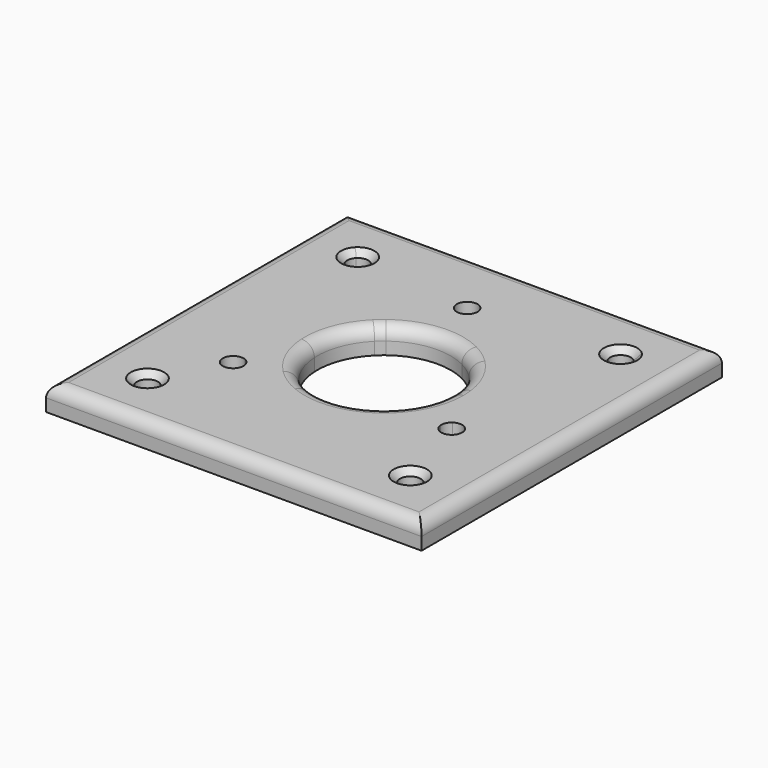
from build123d import *

# Parameters (mm, degrees)
F0_W     = 90
F0_H     = 90
F1_DEPTH = 6
F2_DEPTH = 3
F3_R     = 3
F4_SIZE  = 1.5


with BuildPart() as f1:
    # F0 (on Top) → F1 (new body)
    with BuildSketch(Plane.XY):
        with Locations((45, 57.9624775852)):
            Rectangle(F0_W, F0_H)
        with BuildLine():
            ThreePointArc((16, 26.4624775852), (14.4567085809, 24.152778754), (11.732233047, 24.6947106323))
            ThreePointArc((11.732233047, 24.6947106323), (12.5432914191, 28.7721764165), (16, 26.4624775852))
        make_face(mode=Mode.SUBTRACT)
        with BuildLine():
            ThreePointArc((79, 26.4624775852), (78.8096988313, 25.5057690043), (78.267766953, 24.6947106323))
            ThreePointArc((78.267766953, 24.6947106323), (74.1903011687, 27.4191861662), (79, 26.4624775852))
        make_face(mode=Mode.SUBTRACT)
        with BuildLine():
            ThreePointArc((16, 89.4624775852), (12.5432914191, 87.152778754), (11.732233047, 91.2302445382))
            ThreePointArc((11.732233047, 91.2302445382), (14.4567085809, 91.7721764165), (16, 89.4624775852))
        make_face(mode=Mode.SUBTRACT)
        with BuildLine():
            Line((65.762042471, 45.6721763201), (53.7451824967, 44.5639036649))
            ThreePointArc((53.7451824967, 44.5639036649), (46.4693877551, 42.0300923393), (38.8528937147, 43.190440342))
            Line((38.8528937147, 43.190440342), (26.8360337403, 42.0821676867))
            Line((26.8360337403, 42.0821676867), (27.0987256205, 41.6271720034))
            Line((27.0987256205, 41.6271720034), (24.9595724614, 37.9220500467))
            Line((24.9595724614, 37.9220500467), (24.5006494092, 37.1271720034))
            Line((24.5006494092, 37.1271720034), (19.3044969865, 37.1271720034))
            Line((19.3044969865, 37.1271720034), (16.7064207751, 41.6271720034))
            Line((16.7064207751, 41.6271720034), (19.3044969865, 46.1271720034))
            Line((19.3044969865, 46.1271720034), (23.9752656487, 46.1271720034))
            Line((23.9752656487, 46.1271720034), (29.0239033621, 57.0882143426))
            ThreePointArc((29.0239033621, 57.0882143426), (30.0561039252, 63.6791173416), (33.686291501, 69.2761860842))
            ThreePointArc((33.686291501, 69.2761860842), (34.4603089777, 70.0005386067), (35.2805936243, 70.6720464098))
            Line((35.2805936243, 70.6720464098), (40.3292313377, 81.6330887489))
            Line((40.3292313377, 81.6330887489), (39.8038475773, 81.6330887489))
            Line((39.8038475773, 81.6330887489), (37.2057713659, 86.1330887489))
            Line((37.2057713659, 86.1330887489), (39.8038475773, 90.6330887489))
            Line((39.8038475773, 90.6330887489), (45, 90.6330887489))
            Line((45, 90.6330887489), (47.5980762114, 86.1330887489))
            Line((47.5980762114, 86.1330887489), (45.2626918802, 82.0880844322))
            Line((45.2626918802, 82.0880844322), (52.2309141412, 72.2353147483))
            ThreePointArc((52.2309141412, 72.2353147483), (54.3896148925, 70.9175975064), (56.313708499, 69.2761860842))
            ThreePointArc((56.313708499, 69.2761860842), (59.3557468051, 65.0273578863), (60.866512661, 60.024946004))
            Line((60.866512661, 60.024946004), (67.8347349219, 50.1721763201))
            Line((67.8347349219, 50.1721763201), (68.0974268022, 50.6271720034))
            Line((68.0974268022, 50.6271720034), (73.2935792249, 50.6271720034))
            Line((73.2935792249, 50.6271720034), (75.8916554362, 46.1271720034))
            Line((75.8916554362, 46.1271720034), (73.2935792249, 41.6271720034))
            Line((73.2935792249, 41.6271720034), (68.0974268022, 41.6271720034))
            Line((68.0974268022, 41.6271720034), (65.762042471, 45.6721763201))
        make_face(mode=Mode.SUBTRACT)
        with BuildLine():
            ThreePointArc((79, 89.4624775852), (74.1903011687, 88.5057690043), (78.267766953, 91.2302445382))
            ThreePointArc((78.267766953, 91.2302445382), (78.8096988313, 90.4191861662), (79, 89.4624775852))
        make_face(mode=Mode.SUBTRACT)
        with BuildLine():
            Line((26.8360337403, 42.0821676867), (38.8528937147, 43.190440342))
            ThreePointArc((38.8528937147, 43.190440342), (36.099998727, 44.6662383673), (33.686291501, 46.6487690863))
            ThreePointArc((33.686291501, 46.6487690863), (30.3907950108, 51.4378220707), (29.0239033621, 57.0882143426))
            Line((29.0239033621, 57.0882143426), (23.9752656487, 46.1271720034))
            Line((23.9752656487, 46.1271720034), (24.5006494092, 46.1271720034))
            Line((24.5006494092, 46.1271720034), (26.8360337403, 42.0821676867))
        make_face()
        with BuildLine():
            Line((40.3292313377, 81.6330887489), (35.2805936243, 70.6720464098))
            ThreePointArc((35.2805936243, 70.6720464098), (43.5306122449, 73.8948628312), (52.2309141412, 72.2353147483))
            Line((52.2309141412, 72.2353147483), (45.2626918802, 82.0880844322))
            Line((45.2626918802, 82.0880844322), (45, 81.6330887489))
            Line((45, 81.6330887489), (40.3292313377, 81.6330887489))
        make_face()
        with BuildLine():
            ThreePointArc((61, 57.9624775852), (59.7820725202, 51.8395426674), (56.313708499, 46.6487690863))
            ThreePointArc((56.313708499, 46.6487690863), (55.0834737541, 45.5397742945), (53.7451824967, 44.5639036649))
            Line((53.7451824967, 44.5639036649), (65.762042471, 45.6721763201))
            Line((65.762042471, 45.6721763201), (65.4993505908, 46.1271720034))
            Line((65.4993505908, 46.1271720034), (67.8347349219, 50.1721763201))
            Line((67.8347349219, 50.1721763201), (60.866512661, 60.024946004))
            ThreePointArc((60.866512661, 60.024946004), (60.96659329, 58.9958694335), (61, 57.9624775852))
        make_face()
        with BuildLine():
            Line((39.8038475773, 81.6330887489), (40.3292313377, 81.6330887489))
            Line((40.3292313377, 81.6330887489), (41.3560385544, 83.8623787109))
            ThreePointArc((41.3560385544, 83.8623787109), (41.0537237081, 88.2384050061), (44.9019237886, 86.1330887489))
            ThreePointArc((44.9019237886, 86.1330887489), (44.6221574364, 84.9839314274), (43.8454737491, 84.0919705476))
            Line((43.8454737491, 84.0919705476), (45.2626918802, 82.0880844322))
            Line((45.2626918802, 82.0880844322), (47.5980762114, 86.1330887489))
            Line((47.5980762114, 86.1330887489), (45, 90.6330887489))
            Line((45, 90.6330887489), (39.8038475773, 90.6330887489))
            Line((39.8038475773, 90.6330887489), (37.2057713659, 86.1330887489))
            Line((37.2057713659, 86.1330887489), (39.8038475773, 81.6330887489))
        make_face()
        with BuildLine():
            Line((27.0987256205, 41.6271720034), (26.8360337403, 42.0821676867))
            Line((26.8360337403, 42.0821676867), (24.3920083925, 41.8567638402))
            ThreePointArc((24.3920083925, 41.8567638402), (24.3999305998, 41.742089394), (24.4025731978, 41.6271720034))
            ThreePointArc((24.4025731978, 41.6271720034), (19.7972569406, 40.2789719229), (22.9484584321, 43.8978820415))
            Line((22.9484584321, 43.8978820415), (23.9752656487, 46.1271720034))
            Line((23.9752656487, 46.1271720034), (19.3044969865, 46.1271720034))
            Line((19.3044969865, 46.1271720034), (16.7064207751, 41.6271720034))
            Line((16.7064207751, 41.6271720034), (19.3044969865, 37.1271720034))
            Line((19.3044969865, 37.1271720034), (24.5006494092, 37.1271720034))
            Line((24.5006494092, 37.1271720034), (24.9595724614, 37.9220500467))
            Line((24.9595724614, 37.9220500467), (27.0987256205, 41.6271720034))
        make_face()
        with BuildLine():
            Line((68.2060678188, 45.8975801667), (65.762042471, 45.6721763201))
            Line((65.762042471, 45.6721763201), (68.0974268022, 41.6271720034))
            Line((68.0974268022, 41.6271720034), (73.2935792249, 41.6271720034))
            Line((73.2935792249, 41.6271720034), (75.8916554362, 46.1271720034))
            Line((75.8916554362, 46.1271720034), (73.2935792249, 50.6271720034))
            Line((73.2935792249, 50.6271720034), (68.0974268022, 50.6271720034))
            Line((68.0974268022, 50.6271720034), (67.8347349219, 50.1721763201))
            Line((67.8347349219, 50.1721763201), (69.2519530531, 48.1682902047))
            ThreePointArc((69.2519530531, 48.1682902047), (71.844660335, 48.3474056512), (73.1955030135, 46.1271720034))
            ThreePointArc((73.1955030135, 46.1271720034), (70.8104204041, 43.6298146014), (68.2060678188, 45.8975801667))
        make_face()
        with BuildLine():
            Line((41.3560385544, 83.8623787109), (40.3292313377, 81.6330887489))
            Line((40.3292313377, 81.6330887489), (45, 81.6330887489))
            Line((45, 81.6330887489), (45.2626918802, 82.0880844322))
            Line((45.2626918802, 82.0880844322), (43.8454737491, 84.0919705476))
            ThreePointArc((43.8454737491, 84.0919705476), (42.6315156254, 83.6436535542), (41.3560385544, 83.8623787109))
        make_face()
        with BuildLine():
            Line((24.3920083925, 41.8567638402), (26.8360337403, 42.0821676867))
            Line((26.8360337403, 42.0821676867), (24.5006494092, 46.1271720034))
            Line((24.5006494092, 46.1271720034), (23.9752656487, 46.1271720034))
            Line((23.9752656487, 46.1271720034), (22.9484584321, 43.8978820415))
            ThreePointArc((22.9484584321, 43.8978820415), (23.9436913991, 43.0707219639), (24.3920083925, 41.8567638402))
        make_face()
        with BuildLine():
            Line((65.4993505908, 46.1271720034), (65.762042471, 45.6721763201))
            Line((65.762042471, 45.6721763201), (68.2060678188, 45.8975801667))
            ThreePointArc((68.2060678188, 45.8975801667), (68.4247929755, 47.1730572377), (69.2519530531, 48.1682902047))
            Line((69.2519530531, 48.1682902047), (67.8347349219, 50.1721763201))
            Line((67.8347349219, 50.1721763201), (65.4993505908, 46.1271720034))
        make_face()
    extrude(amount=F1_DEPTH)

    # F0 (on Top) → F2 (cut)
    with BuildSketch(Plane.XY):
        with BuildLine():
            Line((41.3560385544, 83.8623787109), (40.3292313377, 81.6330887489))
            Line((40.3292313377, 81.6330887489), (45, 81.6330887489))
            Line((45, 81.6330887489), (45.2626918802, 82.0880844322))
            Line((45.2626918802, 82.0880844322), (43.8454737491, 84.0919705476))
            ThreePointArc((43.8454737491, 84.0919705476), (42.6315156254, 83.6436535542), (41.3560385544, 83.8623787109))
        make_face()
        with BuildLine():
            Line((39.8038475773, 81.6330887489), (40.3292313377, 81.6330887489))
            Line((40.3292313377, 81.6330887489), (41.3560385544, 83.8623787109))
            ThreePointArc((41.3560385544, 83.8623787109), (41.0537237081, 88.2384050061), (44.9019237886, 86.1330887489))
            ThreePointArc((44.9019237886, 86.1330887489), (44.6221574364, 84.9839314274), (43.8454737491, 84.0919705476))
            Line((43.8454737491, 84.0919705476), (45.2626918802, 82.0880844322))
            Line((45.2626918802, 82.0880844322), (47.5980762114, 86.1330887489))
            Line((47.5980762114, 86.1330887489), (45, 90.6330887489))
            Line((45, 90.6330887489), (39.8038475773, 90.6330887489))
            Line((39.8038475773, 90.6330887489), (37.2057713659, 86.1330887489))
            Line((37.2057713659, 86.1330887489), (39.8038475773, 81.6330887489))
        make_face()
        with BuildLine():
            Line((24.3920083925, 41.8567638402), (26.8360337403, 42.0821676867))
            Line((26.8360337403, 42.0821676867), (24.5006494092, 46.1271720034))
            Line((24.5006494092, 46.1271720034), (23.9752656487, 46.1271720034))
            Line((23.9752656487, 46.1271720034), (22.9484584321, 43.8978820415))
            ThreePointArc((22.9484584321, 43.8978820415), (23.9436913991, 43.0707219639), (24.3920083925, 41.8567638402))
        make_face()
        with BuildLine():
            Line((27.0987256205, 41.6271720034), (26.8360337403, 42.0821676867))
            Line((26.8360337403, 42.0821676867), (24.3920083925, 41.8567638402))
            ThreePointArc((24.3920083925, 41.8567638402), (24.3999305998, 41.742089394), (24.4025731978, 41.6271720034))
            ThreePointArc((24.4025731978, 41.6271720034), (19.7972569406, 40.2789719229), (22.9484584321, 43.8978820415))
            Line((22.9484584321, 43.8978820415), (23.9752656487, 46.1271720034))
            Line((23.9752656487, 46.1271720034), (19.3044969865, 46.1271720034))
            Line((19.3044969865, 46.1271720034), (16.7064207751, 41.6271720034))
            Line((16.7064207751, 41.6271720034), (19.3044969865, 37.1271720034))
            Line((19.3044969865, 37.1271720034), (24.5006494092, 37.1271720034))
            Line((24.5006494092, 37.1271720034), (24.9595724614, 37.9220500467))
            Line((24.9595724614, 37.9220500467), (27.0987256205, 41.6271720034))
        make_face()
        with BuildLine():
            Line((65.4993505908, 46.1271720034), (65.762042471, 45.6721763201))
            Line((65.762042471, 45.6721763201), (68.2060678188, 45.8975801667))
            ThreePointArc((68.2060678188, 45.8975801667), (68.4247929755, 47.1730572377), (69.2519530531, 48.1682902047))
            Line((69.2519530531, 48.1682902047), (67.8347349219, 50.1721763201))
            Line((67.8347349219, 50.1721763201), (65.4993505908, 46.1271720034))
        make_face()
        with BuildLine():
            Line((68.2060678188, 45.8975801667), (65.762042471, 45.6721763201))
            Line((65.762042471, 45.6721763201), (68.0974268022, 41.6271720034))
            Line((68.0974268022, 41.6271720034), (73.2935792249, 41.6271720034))
            Line((73.2935792249, 41.6271720034), (75.8916554362, 46.1271720034))
            Line((75.8916554362, 46.1271720034), (73.2935792249, 50.6271720034))
            Line((73.2935792249, 50.6271720034), (68.0974268022, 50.6271720034))
            Line((68.0974268022, 50.6271720034), (67.8347349219, 50.1721763201))
            Line((67.8347349219, 50.1721763201), (69.2519530531, 48.1682902047))
            ThreePointArc((69.2519530531, 48.1682902047), (71.844660335, 48.3474056512), (73.1955030135, 46.1271720034))
            ThreePointArc((73.1955030135, 46.1271720034), (70.8104204041, 43.6298146014), (68.2060678188, 45.8975801667))
        make_face()
        with BuildLine():
            Line((27.0987256205, 41.6271720034), (26.8360337403, 42.0821676867))
            Line((26.8360337403, 42.0821676867), (24.3920083925, 41.8567638402))
            ThreePointArc((24.3920083925, 41.8567638402), (24.3999305998, 41.742089394), (24.4025731978, 41.6271720034))
            ThreePointArc((24.4025731978, 41.6271720034), (19.7972569406, 40.2789719229), (22.9484584321, 43.8978820415))
            Line((22.9484584321, 43.8978820415), (23.9752656487, 46.1271720034))
            Line((23.9752656487, 46.1271720034), (19.3044969865, 46.1271720034))
            Line((19.3044969865, 46.1271720034), (16.7064207751, 41.6271720034))
            Line((16.7064207751, 41.6271720034), (19.3044969865, 37.1271720034))
            Line((19.3044969865, 37.1271720034), (24.5006494092, 37.1271720034))
            Line((24.5006494092, 37.1271720034), (24.9595724614, 37.9220500467))
            Line((24.9595724614, 37.9220500467), (27.0987256205, 41.6271720034))
        make_face()
        with BuildLine():
            Line((68.2060678188, 45.8975801667), (65.762042471, 45.6721763201))
            Line((65.762042471, 45.6721763201), (68.0974268022, 41.6271720034))
            Line((68.0974268022, 41.6271720034), (73.2935792249, 41.6271720034))
            Line((73.2935792249, 41.6271720034), (75.8916554362, 46.1271720034))
            Line((75.8916554362, 46.1271720034), (73.2935792249, 50.6271720034))
            Line((73.2935792249, 50.6271720034), (68.0974268022, 50.6271720034))
            Line((68.0974268022, 50.6271720034), (67.8347349219, 50.1721763201))
            Line((67.8347349219, 50.1721763201), (69.2519530531, 48.1682902047))
            ThreePointArc((69.2519530531, 48.1682902047), (71.844660335, 48.3474056512), (73.1955030135, 46.1271720034))
            ThreePointArc((73.1955030135, 46.1271720034), (70.8104204041, 43.6298146014), (68.2060678188, 45.8975801667))
        make_face()
        with BuildLine():
            Line((39.8038475773, 81.6330887489), (40.3292313377, 81.6330887489))
            Line((40.3292313377, 81.6330887489), (41.3560385544, 83.8623787109))
            ThreePointArc((41.3560385544, 83.8623787109), (41.0537237081, 88.2384050061), (44.9019237886, 86.1330887489))
            ThreePointArc((44.9019237886, 86.1330887489), (44.6221574364, 84.9839314274), (43.8454737491, 84.0919705476))
            Line((43.8454737491, 84.0919705476), (45.2626918802, 82.0880844322))
            Line((45.2626918802, 82.0880844322), (47.5980762114, 86.1330887489))
            Line((47.5980762114, 86.1330887489), (45, 90.6330887489))
            Line((45, 90.6330887489), (39.8038475773, 90.6330887489))
            Line((39.8038475773, 90.6330887489), (37.2057713659, 86.1330887489))
            Line((37.2057713659, 86.1330887489), (39.8038475773, 81.6330887489))
        make_face()
    extrude(amount=F2_DEPTH, mode=Mode.SUBTRACT)

    # F3
    f3_edges = [f1.edges().sort_by_distance(p)[0] for p in [
        (0, 57.962478, 6),
        (45, 12.962478, 6),
        (45, 102.962478, 6),
        (90, 57.962478, 6),
        (29.133487, 55.900009, 6),
    ]]
    fillet(f3_edges, radius=F3_R)

    # F4
    f4_edges = [f1.edges().sort_by_distance(p)[0] for p in [
        (11, 89.462478, 6),
        (74, 89.462478, 6),
        (74.732233, 28.230245, 6),
        (15.267767, 28.230245, 6),
    ]]
    chamfer(f4_edges, length=F4_SIZE)


solid = f1.part
